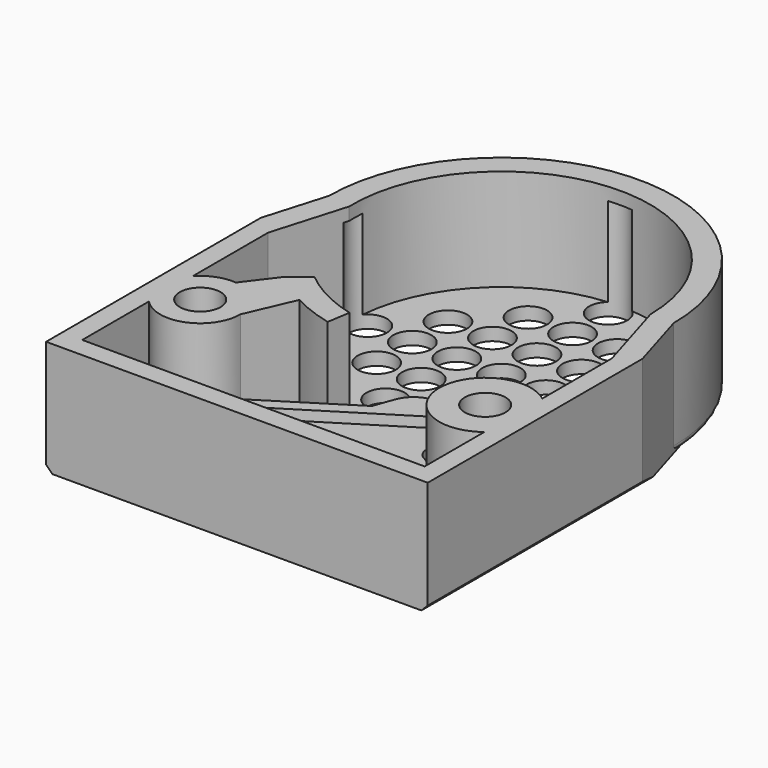
from build123d import *

# Parameters (mm, degrees)
SKETCH070_R     = 1.6
PAD014_DEPTH    = 9
SKETCH071_R     = 1.5
POCKET033_DEPTH = 8
POCKET034_DEPTH = 9
SKETCH073_R     = 2
POCKET035_DEPTH = 7
SKETCH074_R     = 2
PAD015_DEPTH    = 5
SKETCH076_R     = 3.607909
SKETCH076_R_2   = 1.6
PAD016_DEPTH    = 9
SKETCH077_R     = 3
POCKET036_DEPTH = 5
CHAMFER_SIZE    = 0.5
FILLET001_R     = 0.5


with BuildPart() as part:
    # Sketch070 → Pad014 (new body)
    with BuildSketch(Plane.XY):
        with BuildLine():
            Line((-14.98648, 84.614769), (15.01352, 84.614769))
            Line((15.01352, 84.614769), (15.01352, 105.713058))
            Line((13.544477, 110.614769), (15.01352, 105.713058))
            ThreePointArc((13.544477, 110.614769), (0, 124.159246), (-13.544477, 110.614769))
            Line((-13.544477, 110.614769), (-14.98648, 105.713058))
            Line((-14.98648, 105.713058), (-14.98648, 84.614769))
        make_face()
        with Locations((11.3, 94.9)):
            Circle(SKETCH070_R, mode=Mode.SUBTRACT)
        with Locations((-11.1, 94.9)):
            Circle(SKETCH070_R, mode=Mode.SUBTRACT)
    extrude(amount=-PAD014_DEPTH)

    # Sketch071 → Pocket033 (cut)
    with BuildSketch(Plane.XY.offset(-1)):
        with Locations((0, 110.614769)):
            Circle(SKETCH071_R)
        with Locations((0, 114.114769)):
            Circle(SKETCH071_R)
        with Locations((0, 117.614769)):
            Circle(SKETCH071_R)
        with Locations((0, 121.114769)):
            Circle(SKETCH071_R)
        with Locations((0, 107.114769)):
            Circle(SKETCH071_R)
        with Locations((0, 103.614769)):
            Circle(SKETCH071_R)
        with Locations((0, 100.114769)):
            Circle(SKETCH071_R)
        with Locations((3.5, 110.614769)):
            Circle(SKETCH071_R)
        with Locations((7, 110.614769)):
            Circle(SKETCH071_R)
        with Locations((10.5, 110.614769)):
            Circle(SKETCH071_R)
        with Locations((-3.5, 110.614769)):
            Circle(SKETCH071_R)
        with Locations((-7, 110.614769)):
            Circle(SKETCH071_R)
        with Locations((-10.5, 110.614769)):
            Circle(SKETCH071_R)
        with Locations((3.5, 114.114769)):
            Circle(SKETCH071_R)
        with Locations((7, 114.114769)):
            Circle(SKETCH071_R)
        with Locations((-3.5, 114.114769)):
            Circle(SKETCH071_R)
        with Locations((-7, 114.114769)):
            Circle(SKETCH071_R)
        with Locations((3.5, 117.614769)):
            Circle(SKETCH071_R)
        with Locations((-3.5, 117.614769)):
            Circle(SKETCH071_R)
        with Locations((-3.5, 103.614769)):
            Circle(SKETCH071_R)
        with Locations((-3.5, 107.114769)):
            Circle(SKETCH071_R)
        with Locations((-7, 107.114769)):
            Circle(SKETCH071_R)
        with Locations((3.5, 103.614769)):
            Circle(SKETCH071_R)
        with Locations((3.5, 107.114769)):
            Circle(SKETCH071_R)
        with Locations((7, 107.114769)):
            Circle(SKETCH071_R)
    extrude(amount=-POCKET033_DEPTH, mode=Mode.SUBTRACT)

    # Sketch072 → Pocket034 (cut)
    with BuildSketch(Plane.XY.offset(-8)):
        with BuildLine():
            ThreePointArc((-13.403603, 92.74804), (-9.935518, 91.970581), (-7.947663, 94.916846))
            Line((-6.31942, 98.675576), (-7.947663, 94.916846))
            ThreePointArc((-6.31942, 98.675576), (-4.766235, 97.975053), (-3.137223, 97.47562))
            Line((-2.852251, 99.267758), (-3.137223, 97.47562))
            ThreePointArc((-7.50172, 101.636228), (-5.310705, 100.189492), (-2.852251, 99.267758))
            Line((-7.50172, 101.636228), (-8.942088, 100.500963))
            Line((-8.942088, 100.500963), (-10.804664, 98.038517))
            ThreePointArc((-10.804664, 98.038517), (-12.218753, 97.847186), (-13.403603, 97.05196))
            Line((-13.403603, 104.459993), (-13.403603, 97.05196))
            Line((-11.694871, 110.268376), (-13.403603, 104.459993))
            ThreePointArc((11.699959, 110.645764), (-0.188711, 122.313247), (-11.694871, 110.268376))
            Line((11.699959, 110.645764), (13.51352, 104.594511))
            Line((13.51352, 104.594511), (13.51352, 96.878203))
            Line((13.51352, 96.878203), (13.51352, 86.187889))
            Line((13.51352, 86.187889), (0, 86.187889))
            Line((-13.403603, 86.187889), (0, 86.187889))
            Line((-13.403603, 92.74804), (-13.403603, 86.187889))
        make_face()
    extrude(amount=POCKET034_DEPTH, mode=Mode.SUBTRACT)

    # Sketch073 → Pocket035 (cut)
    with BuildSketch(Plane.XY.offset(-8)):
        with Locations((5.937901, 89.530518)):
            Circle(SKETCH073_R)
        Polygon((-4.182843, 90.158684), (9.809951, 98.902352), (9.015072, 100.174424), (-4.977721, 91.430756), align=None)
    extrude(amount=-POCKET035_DEPTH, mode=Mode.SUBTRACT)

    # Sketch074 → Pad015 (join)
    with BuildSketch(Plane.XY.offset(-4)):
        with BuildLine():
            ThreePointArc((1.892431, 89.634359), (7.913794, 85.998881), (7.966013, 93.032428))
            ThreePointArc((7.695797, 94.813919), (7.403193, 93.858298), (7.966013, 93.032428))
            Line((7.695797, 94.813919), (11.764861, 99.227654))
            Line((11.764861, 99.227654), (13.51352, 98.900558))
            Line((13.51352, 98.900558), (13.51352, 104.594511))
            Line((13.51352, 104.594511), (13.091038, 106.004194))
            Line((10.100319, 102.55034), (13.091038, 106.004194))
            Line((10.100319, 102.55034), (9.489143, 103.770343))
            ThreePointArc((3.186255, 99.356981), (6.710877, 101.030713), (9.489143, 103.770343))
            ThreePointArc((3.186255, 99.356981), (2.297226, 98.856665), (1.734205, 98.005962))
            Line((1.734205, 98.005962), (1.165182, 96.436732))
            Line((1.165182, 96.436732), (-6.214738, 91.783745))
            Line((-6.214738, 91.783745), (-4.323315, 88.436639))
            Line((-4.323315, 88.436639), (0.140351, 90.734174))
            ThreePointArc((1.892431, 89.634359), (1.329754, 90.683475), (0.140351, 90.734174))
        make_face()
        with Locations((5.937901, 89.530518)):
            Circle(SKETCH074_R, mode=Mode.SUBTRACT)
        Polygon((-4.977721, 91.430756), (9.015072, 100.174424), (9.809951, 98.902352), (-4.182843, 90.158684), align=None, mode=Mode.SUBTRACT)
    extrude(amount=-PAD015_DEPTH)

    # Sketch076 → Pad016 (join)
    with BuildSketch(Plane.XY):
        with Locations((11.3, 94.9)):
            Circle(SKETCH076_R)
        with Locations((11.3, 94.9)):
            Circle(SKETCH076_R_2, mode=Mode.SUBTRACT)
    extrude(amount=-PAD016_DEPTH)

    # Sketch077 → Pocket036 (cut)
    with BuildSketch(Plane.XY.offset(-9)):
        with Locations((-11.1, 94.9)):
            Circle(SKETCH077_R)
        with Locations((11.3, 94.9)):
            Circle(SKETCH077_R)
    extrude(amount=POCKET036_DEPTH, mode=Mode.SUBTRACT)

    # Chamfer
    chamfer_edges = [part.edges().sort_by_distance(p)[0] for p in [
        (15.01352, 95.163913, -9),
        (-14.98648, 95.163913, -9),
    ]]
    chamfer(chamfer_edges, length=CHAMFER_SIZE)

    # Fillet001
    fillet001_edges = [part.edges().sort_by_distance(p)[0] for p in [
        (0, 124.159246, -9),
    ]]
    fillet(fillet001_edges, radius=FILLET001_R)


solid = part.part
